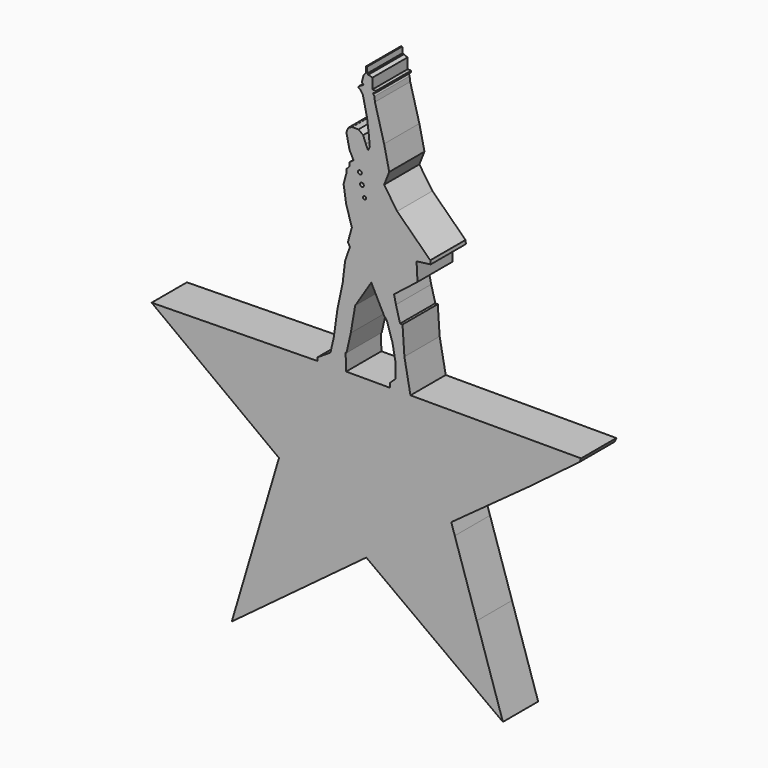
from build123d import *

# Parameters (mm, degrees)
F0_R     = 0.453147
F0_R_2   = 0.54441
F0_R_3   = 0.54854
F1_DEPTH = 12.7


with BuildPart() as f1:
    # F0 (on Front) → F1 (new body)
    with BuildSketch(Plane.XZ):
        Polygon((-39.533757, -65.54234), (-0.760193, -36.696203), (35.802592, -63.547), (38.606675, -65.606249), (31.076437, -42.409137), (24.738393, -22.884612), (23.723046, -19.756807), (46.13781, -3.457308), (60.679827, 7.501139), (61.14725, 8.591791), (11.964072, 8.591791), (10.218171, 17.820274), (9.674744, 25.812406), (8.968875, 25.819117), (7.777616, 30.226135), (7.229322, 32.704141), (13.991971, 38.017649), (13.720257, 43.180205), (17.780535, 43.698543), (17.675199, 44.568963), (17.675199, 44.719916), (8.1342, 54.03503), (4.368194, 59.564289), (5.838566, 63.279467), (4.368194, 69.924787), (1.731881, 79.677723), (1.555634, 81.05831), (1.212185, 81.745215), (2.003027, 82.140632), (2.027594, 82.16323), (2.027594, 82.605079), (0.975498, 82.605079), (0.975498, 85.611068), (0, 85.967864), (-0.211868, 85.971788), (-0.211868, 85.986815), (-0.452347, 86.242326), (-0.571582, 87.859698), (-0.888215, 87.865561), (-0.918275, 86.242326), (-1.534503, 85.415684), (-2.044514, 83.477632), (-1.534503, 82.935743), (-2.917258, 82.18424), (-3.007438, 81.703283), (-2.507543, 81.552982), (-2.507543, 81.424944), (-1.669773, 80.230348), (-1.669773, 80.004901), (-0.512467, 74.774474), (0, 70.505977), (0.239031, 67.845672), (-0.250665, 66.842255), (-0.873186, 68.071127), (-0.918276, 68.236455), (-1.669773, 70.175312), (-3.007438, 71.197353), (-4.765941, 71.197353), (-4.877486, 71.194044), (-5.998397, 70.626214), (-6.479356, 69.333635), (-6.479356, 69.19837), (-5.592589, 65.155312), (-4.435283, 62.870763), (-5.592589, 62.059145), (-5.592589, 61.938908), (-5.592589, 60.94693), (-6.419236, 60.105253), (-6.479356, 60.045134), (-6.479356, 59.023097), (-7.306002, 55.92693), (-6.569892, 51.117349), (-4.931271, 45.691539), (-6.079414, 41.555599), (-5.472349, 40.611416), (-6.885163, 36.538303), (-7.561511, 30.826923), (-9.079536, 23.672668), (-10.146662, 16.052486), (-11.093548, 11.934282), (-14.841024, 9.524833), (-14.841024, 8.591791), (-62.628269, 7.850908), (-25.927428, -19.620989), align=None)
        with Locations((-1.263964, 54.393876)):
            Circle(F0_R, mode=Mode.SUBTRACT)
        with Locations((-2.015462, 57.475016)):
            Circle(F0_R_2, mode=Mode.SUBTRACT)
        with Locations((-2.60163, 60.420882)):
            Circle(F0_R_3, mode=Mode.SUBTRACT)
        Polygon((6.005918, 9.801562), (6.005918, 8.591791), (-6.569892, 8.591791), (-6.723631, 13.368296), (-6.477118, 13.368296), (-5.239312, 18.816557), (-3.971315, 26.183013), (0.678006, 33.549469), (4.451805, 26.152823), (4.542376, 26.092442), (5.115994, 25.458444), (6.759554, 20.360412), (7.697042, 15.405042), (7.697042, 11.400443), align=None, mode=Mode.SUBTRACT)
    extrude(amount=F1_DEPTH)


solid = f1.part
